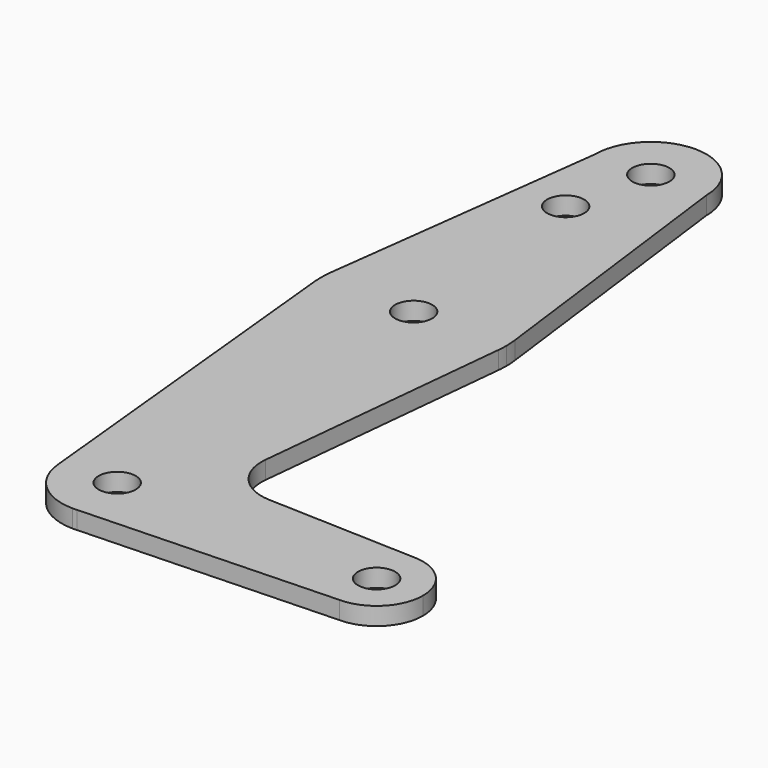
from build123d import *

# Parameters (mm, degrees)
F0_R     = 3.175
F1_DEPTH = 3.048


with BuildPart() as f1:
    # F0 (on Top) → F1 (new body)
    with BuildSketch(Plane.XY):
        with BuildLine():
            ThreePointArc((0.67949, -9.500732), (6.97129, -6.490511), (9.525, 0))
            ThreePointArc((9.525, 0), (-0.476848, 9.513056), (-9.477255, -0.9525))
            ThreePointArc((-9.477255, -0.9525), (-6.389564, -7.063929), (0, -9.525))
            Line((0, -9.525), (0.67949, -9.500732))
        make_face()
        Circle(F0_R, mode=Mode.SUBTRACT)
        with BuildLine():
            ThreePointArc((-9.477255, -0.9525), (-0.476848, 9.513056), (9.525, 0))
            ThreePointArc((9.525, 0), (6.97129, -6.490511), (0.67949, -9.500732))
            Line((0.67949, -9.500732), (44.45, -7.9375))
            ThreePointArc((44.45, -7.9375), (36.5125, 0), (44.45, 7.9375))
            Line((44.45, 7.9375), (18.967215, 8.847599))
            ThreePointArc((18.967215, 8.847599), (13.260694, 11.565663), (11.340621, 17.587754))
            Line((11.340621, 17.587754), (15.795426, 61.9125))
            ThreePointArc((15.795426, 61.9125), (0, 47.625), (-15.795426, 61.9125))
            Line((-15.795426, 61.9125), (-9.477255, -0.9525))
        make_face()
        with BuildLine():
            ThreePointArc((0, -9.525), (0.339962, -9.518931), (0.67949, -9.500732))
            Line((0.67949, -9.500732), (0, -9.525))
        make_face()
        with BuildLine():
            ThreePointArc((-15.747457, 65.508289), (-15.873588, 63.711757), (-15.795426, 61.9125))
            ThreePointArc((-15.795426, 61.9125), (0, 47.625), (15.795426, 61.9125))
            ThreePointArc((15.795426, 61.9125), (15.855094, 62.705253), (15.875, 63.5))
            ThreePointArc((15.875, 63.5), (15.843082, 64.506168), (15.747457, 65.508289))
            ThreePointArc((15.747457, 65.508289), (0, 79.375), (-15.747457, 65.508289))
        make_face()
        with Locations((0, 63.5)):
            Circle(F0_R, mode=Mode.SUBTRACT)
        with BuildLine():
            ThreePointArc((44.45, 7.9375), (36.5125, 0), (44.45, -7.9375))
            ThreePointArc((44.45, -7.9375), (50.06266, -5.61266), (52.3875, 0))
            ThreePointArc((52.3875, 0), (50.06266, 5.61266), (44.45, 7.9375))
        make_face()
        with Locations((44.45, 0)):
            Circle(F0_R, mode=Mode.SUBTRACT)
        with BuildLine():
            Line((-9.525, 114.3), (-15.747457, 65.508289))
            ThreePointArc((-15.747457, 65.508289), (0, 79.375), (15.747457, 65.508289))
            Line((15.747457, 65.508289), (9.525, 114.3))
            ThreePointArc((9.525, 114.3), (0, 104.775), (-9.525, 114.3))
        make_face()
        with Locations((-3.175, 100.0252)):
            Circle(F0_R, mode=Mode.SUBTRACT)
        with BuildLine():
            ThreePointArc((9.525, 114.3), (0, 123.825), (-9.525, 114.3))
            ThreePointArc((-9.525, 114.3), (0, 104.775), (9.525, 114.3))
        make_face()
        with Locations((0, 114.3)):
            Circle(F0_R, mode=Mode.SUBTRACT)
    extrude(amount=F1_DEPTH)


solid = f1.part
